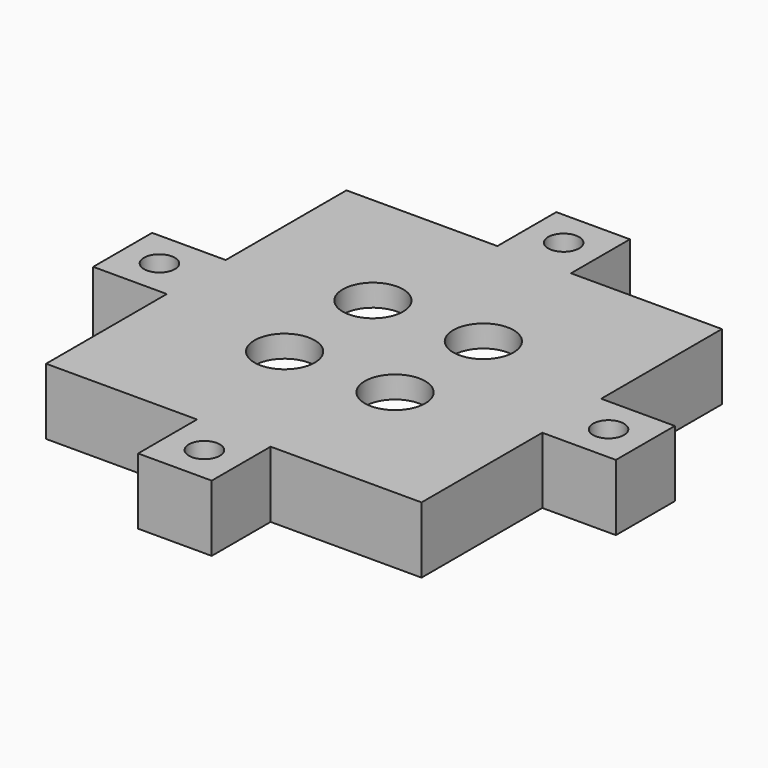
from build123d import *

# Parameters (mm, degrees)
F0_W     = 45
F0_H     = 45
F0_R     = 4.1
F1_DEPTH = 3
F2_W     = 51
F2_H     = 51
F2_W_2   = 45
F2_H_2   = 45
F3_DEPTH = 9
F4_W     = 10
F4_H     = 10
F4_R     = 2.1
F5_DEPTH = 9


with BuildPart() as f1:
    # F0 (on Top) → F1 (new body)
    with BuildSketch(Plane.XY):
        Rectangle(F0_W, F0_H)
        with Locations((-7.5, -7.5)):
            Circle(F0_R, mode=Mode.SUBTRACT)
        with Locations((7.5, -7.5)):
            Circle(F0_R, mode=Mode.SUBTRACT)
        with Locations((-7.5, 7.5)):
            Circle(F0_R, mode=Mode.SUBTRACT)
        with Locations((7.5, 7.5)):
            Circle(F0_R, mode=Mode.SUBTRACT)
    extrude(amount=F1_DEPTH)

    # F2 (on face) → F3 (join)
    with BuildSketch(Plane.XY.offset(3)):
        Rectangle(F2_W, F2_H)
        Rectangle(F2_W_2, F2_H_2, mode=Mode.SUBTRACT)
    extrude(amount=-F3_DEPTH)

    # F4 (on face) → F5 (join)
    with BuildSketch(Plane.XY.offset(3)):
        with Locations((0, 30.5)):
            Rectangle(F4_W, F4_H)
        with Locations((0, 30.5)):
            Circle(F4_R, mode=Mode.SUBTRACT)
        with Locations((-30.5, 0)):
            Rectangle(F4_W, F4_H)
        with Locations((-30.5, 0)):
            Circle(F4_R, mode=Mode.SUBTRACT)
        with Locations((0, -30.5)):
            Rectangle(F4_W, F4_H)
        with Locations((0, -30.5)):
            Circle(F4_R, mode=Mode.SUBTRACT)
        with Locations((30.5, 0)):
            Rectangle(F4_W, F4_H)
        with Locations((30.5, 0)):
            Circle(F4_R, mode=Mode.SUBTRACT)
    extrude(amount=-F5_DEPTH)


solid = f1.part
